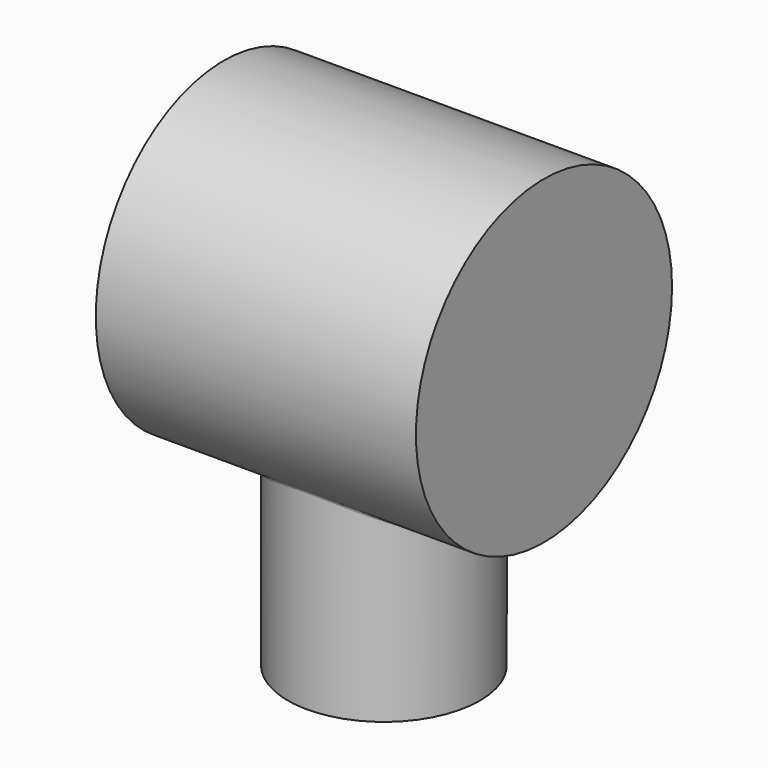
from build123d import *

# Parameters (mm, degrees)
F0_R     = 25
F1_DEPTH = 25
F2_R     = 15
F3_DEPTH = 50
F4_R     = 0.5


with BuildPart() as f1:
    # F0 (on Right) → F1 (new body, symmetric)
    with BuildSketch(Plane.YZ):
        Circle(F0_R)
    extrude(amount=F1_DEPTH, both=True)

    # F2 (on Top) → F3 (join)
    with BuildSketch(Plane.XY):
        Circle(F2_R)
    extrude(amount=-F3_DEPTH)

    # F4
    f4_edges = [f1.edges().sort_by_distance(p)[0] for p in [
        (-15, 0, -25),
    ]]
    fillet(f4_edges, radius=F4_R)


solid = f1.part
